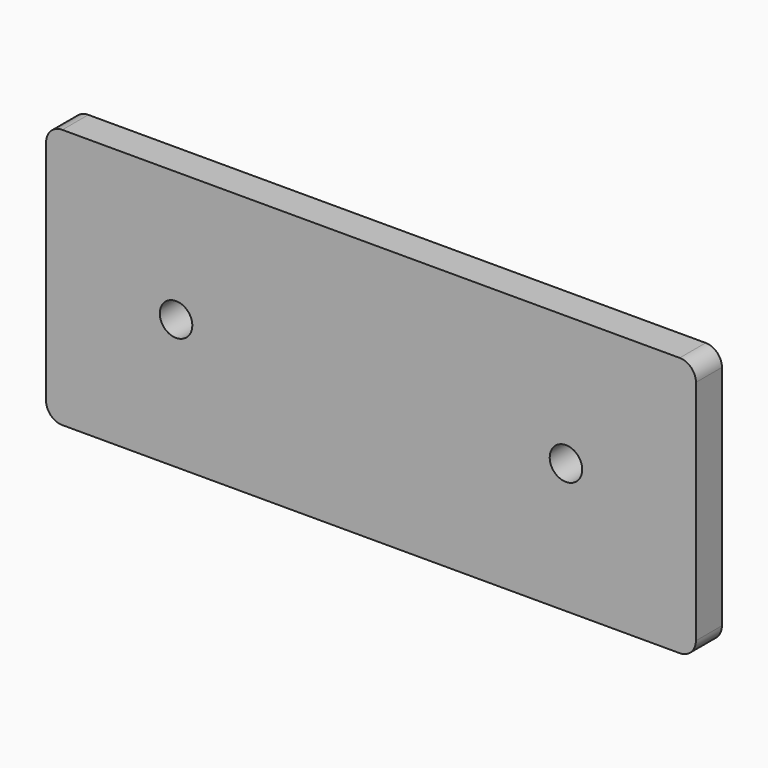
from build123d import *

# Parameters (mm, degrees)
F0_W     = 254
F0_H     = 101.6
F1_DEPTH = 12.7
F2_R     = 6.35
F4_D     = 12.7


with BuildPart() as f1:
    # F0 (on Front) → F1 (new body)
    with BuildSketch(Plane.XZ):
        with Locations((-6.140905, -11.582119)):
            Rectangle(F0_W, F0_H)
    extrude(amount=F1_DEPTH)

    # F2
    f2_edges = [f1.edges().sort_by_distance(p)[0] for p in [
        (-133.140905, -6.35, 39.217881),
        (120.859095, -6.35, 39.217881),
        (-133.140905, -6.35, -62.382119),
        (120.859095, -6.35, -62.382119),
    ]]
    fillet(f2_edges, radius=F2_R)

    # F4 (through all)
    with Locations(Plane.XZ.offset(12.7)):
        with Locations((-82.340905, -11.582119), (70.059095, -11.582119)):
            Hole(F4_D / 2)


solid = f1.part
